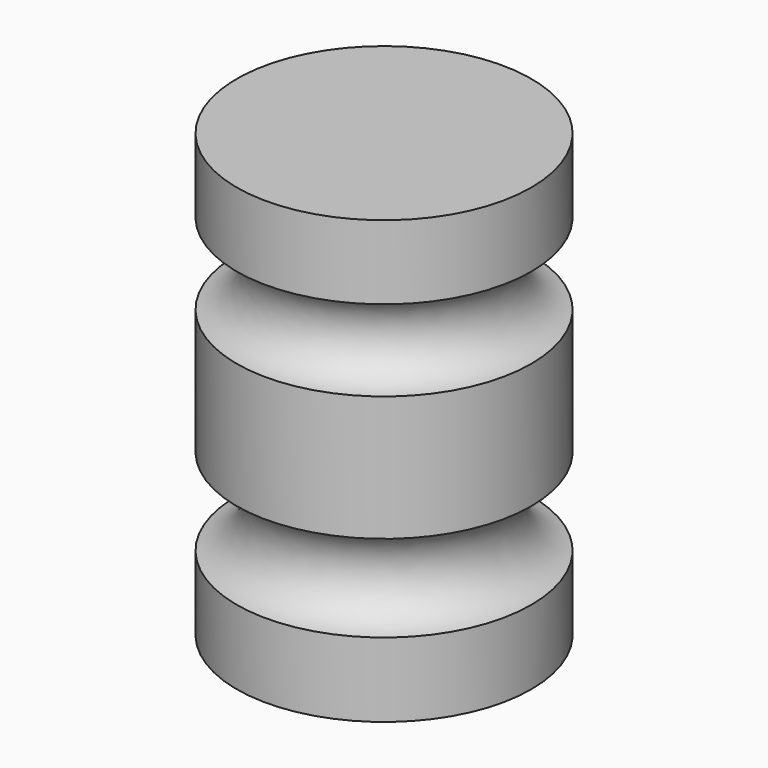
from build123d import *


with BuildPart() as f1:
    # F0 (on Front) → F1 (revolve)
    with BuildSketch(Plane.XZ):
        with BuildLine():
            Line((0, 76.2), (-25.4, 76.2))
            Line((-25.4, 76.2), (-25.4, 0))
            Line((-25.4, 0), (0, 0))
            Line((0, 0), (0, 12.826066))
            ThreePointArc((0, 12.826066), (-6.238506, 20.318735), (0, 27.811404))
            Line((0, 27.811404), (0, 49.431455))
            ThreePointArc((0, 49.431455), (-6.082944, 56.431185), (0, 63.430914))
            Line((0, 63.430914), (0, 76.2))
        make_face()
    revolve(axis=Axis((-25.4, 0, 38.1), (0, 0, -1)))


solid = f1.part
